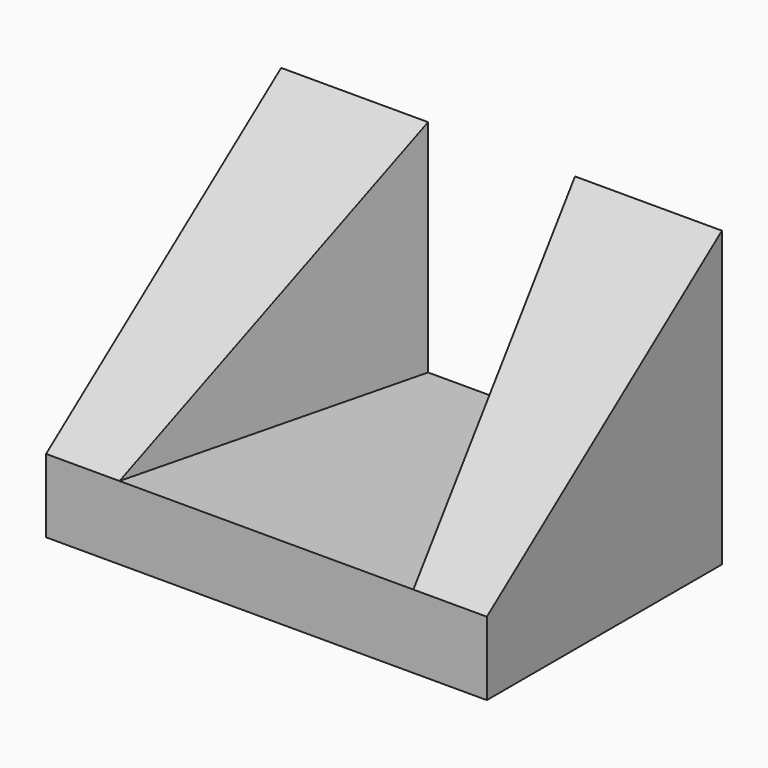
from build123d import *

# Parameters (mm, degrees)
F0_W     = 60
F0_H     = 40
F1_DEPTH = 10
F3_DEPTH = 30
F5_DEPTH = 60


with BuildPart() as f1:
    # F0 (on Top) → F1 (new body)
    with BuildSketch(Plane.XY):
        with Locations((2.516519, 6.717979)):
            Rectangle(F0_W, F0_H)
    extrude(amount=F1_DEPTH)

    # F2 (on face) → F3 (join)
    with BuildSketch(Plane.XY.offset(10)):
        Polygon((-7.483481, 26.717979), (-27.483481, 26.717979), (-27.483481, -13.282021), (-17.483481, -13.282021), align=None)
        Polygon((32.516519, 26.717979), (12.516519, 26.717979), (22.516519, -13.282021), (32.516519, -13.282021), align=None)
    extrude(amount=F3_DEPTH)

    # F4 (on face) → F5 (cut)
    with BuildSketch(Plane(origin=(-27.483481, 0, 0), x_dir=(0, -1, 0), z_dir=(-1, 0, 0))):
        Polygon((-26.717979, 40), (13.282021, 10), (13.282021, 40), align=None)
    extrude(amount=-F5_DEPTH, mode=Mode.SUBTRACT)


solid = f1.part
